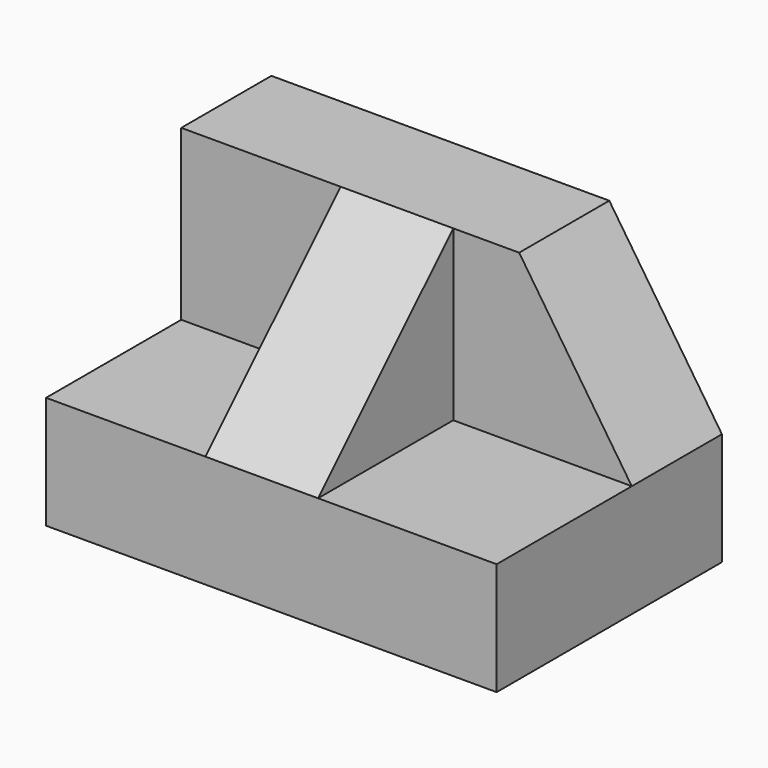
from build123d import *

# Parameters (mm, degrees)
F1_DEPTH = 50.8
F3_DEPTH = 37.084
F4_W     = 12.7
F4_H     = 19.05
F5_DEPTH = 19.05
F7_DEPTH = 25.4


with BuildPart() as f1:
    # F0 (on Right) → F1 (new body)
    with BuildSketch(Plane.YZ):
        Polygon((-31.75, 0), (0, 0), (0, 31.75), (-12.7, 31.75), (-12.7, 12.7), (-31.75, 12.7), align=None)
    extrude(amount=F1_DEPTH)

    # F2 (on face) → F3 (cut)
    with BuildSketch(Plane.XZ.offset(12.7)):
        Polygon((38.1, 31.75), (50.8, 12.7), (50.8, 31.75), align=None)
    extrude(amount=-F3_DEPTH, mode=Mode.SUBTRACT)

    # F4 (on face) → F5 (join)
    with BuildSketch(Plane.XY.offset(12.7)):
        with Locations((24.318724, -22.225)):
            Rectangle(F4_W, F4_H)
    extrude(amount=F5_DEPTH)

    # F6 (on face) → F7 (cut)
    with BuildSketch(Plane.YZ.offset(30.668724)):
        Polygon((-31.75, 31.75), (-31.75, 12.7), (-12.7, 31.75), align=None)
    extrude(amount=-F7_DEPTH, mode=Mode.SUBTRACT)


solid = f1.part
